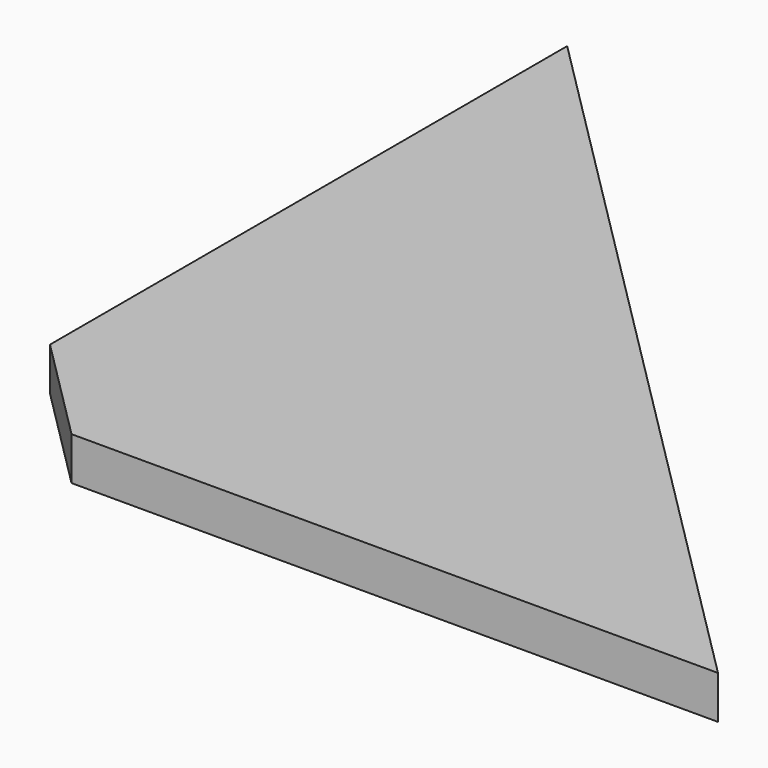
from build123d import *

# Parameters (mm, degrees)
F1_DEPTH = 4
F2_SIZE  = 10


with BuildPart() as f1:
    # F0 (on Top) → F1 (new body)
    with BuildSketch(Plane.XY):
        Polygon((0, 70), (0, 0), (70, 0), align=None)
    extrude(amount=F1_DEPTH)

    # F2
    f2_edges = [f1.edges().sort_by_distance(p)[0] for p in [
        (0, 0, 2),
    ]]
    chamfer(f2_edges, length=F2_SIZE)


solid = f1.part
